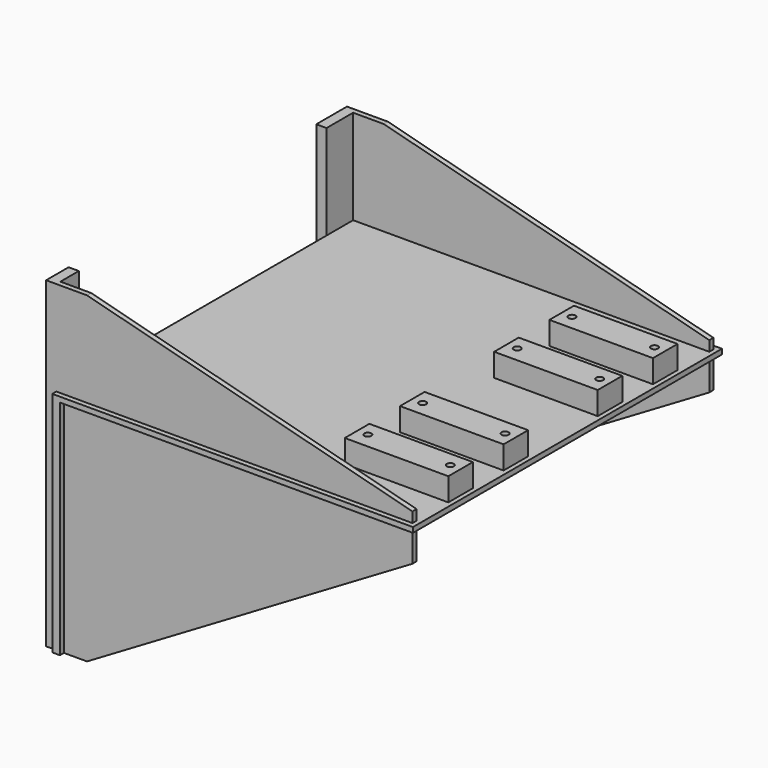
from build123d import *

# Parameters (mm, degrees)
F0_W      = 895.35
F0_H      = 958.85
F1_DEPTH  = 12.7
F2_W      = 257.048
F2_H      = 76.2
F2_R      = 8.73125
F3_DEPTH  = 57.15
F6_DEPTH  = 12.7
F8_DEPTH  = 12.7
F9_W      = 19.05
F9_H      = 552.45
F10_DEPTH = 946.278
F13_DEPTH = 19.05
F14_W     = 69.85
F14_H     = 800.1
F14_W_2   = 95.25
F15_DEPTH = 25.4


with BuildPart() as f1:
    # F0 (on Top) → F1 (new body)
    with BuildSketch(Plane.XY):
        Rectangle(F0_W, F0_H)
    extrude(amount=F1_DEPTH)

    # F2 (on face) → F3 (join)
    with BuildSketch(Plane.XY.offset(12.7)):
        with Locations((307.975, -146.05)):
            Rectangle(F2_W, F2_H)
        with Locations((205.613, -146.812)):
            Circle(F2_R, mode=Mode.SUBTRACT)
        with Locations((410.337, -146.812)):
            Circle(F2_R, mode=Mode.SUBTRACT)
        with Locations((307.975, -317.5)):
            Rectangle(F2_W, F2_H)
        with Locations((205.613, -316.738)):
            Circle(F2_R, mode=Mode.SUBTRACT)
        with Locations((410.337, -316.738)):
            Circle(F2_R, mode=Mode.SUBTRACT)
        with Locations((307.975, 146.05)):
            Rectangle(F2_W, F2_H)
        with Locations((205.613, 146.812)):
            Circle(F2_R, mode=Mode.SUBTRACT)
        with Locations((410.337, 146.812)):
            Circle(F2_R, mode=Mode.SUBTRACT)
        with Locations((307.975, 317.5)):
            Rectangle(F2_W, F2_H)
        with Locations((205.613, 316.738)):
            Circle(F2_R, mode=Mode.SUBTRACT)
        with Locations((410.337, 316.738)):
            Circle(F2_R, mode=Mode.SUBTRACT)
    extrude(amount=F3_DEPTH)

    # F5 (on offset) → F6 (join)
    with BuildSketch(Plane.XZ.offset(454.152)):
        Polygon((-447.675, 247.65), (-447.675, 12.7), (436.499, 12.7), (436.499, 38.1), (-371.475, 247.65), align=None)
    extrude(amount=F6_DEPTH)

    # F7 (on face) → F8 (join)
    with BuildSketch(Plane.XZ.offset(466.852)):
        Polygon((436.499, -76.2), (436.499, 0), (-447.675, 0), (-447.675, -552.45), (-371.475, -552.45), align=None)
    extrude(amount=-F8_DEPTH)

    # F9 (on face) → F10 (cut, through all)
    with BuildSketch(Plane.XZ.offset(466.852)):
        with Locations((-438.15, -276.225)):
            Rectangle(F9_W, F9_H)
    extrude(amount=-F10_DEPTH, mode=Mode.SUBTRACT)

    # F11: F1 across plane


with BuildPart() as f1_1:
    add(f1.part)
    add(f1.part.mirror(Plane.XZ))

    # F12 (on face) → F13 (join)
    with BuildSketch(Plane(origin=(-428.625, 0, 0), x_dir=(0, -1, 0), z_dir=(-1, 0, 0))):
        with BuildLine():
            Line((479.425, -552.45), (479.425, 0))
            Line((479.425, 0), (-479.425, 0))
            Line((-479.425, 0), (-479.425, -552.45))
            Line((-479.425, -552.45), (-365.125, -552.45))
            Line((-365.125, -552.45), (-365.125, -241.3))
            ThreePointArc((-365.125, -241.3), (-350.2460244843, -205.3789755157), (-314.325, -190.5))
            Line((-314.325, -190.5), (314.325, -190.5))
            ThreePointArc((314.325, -190.5), (350.2460244843, -205.3789755157), (365.125, -241.3))
            Line((365.125, -241.3), (365.125, -552.45))
            Line((365.125, -552.45), (479.425, -552.45))
        make_face()
    extrude(amount=F13_DEPTH)

    # F14 (on face) → F15 (join)
    with BuildSketch(Plane(origin=(-447.675, 0, 0), x_dir=(0, -1, 0), z_dir=(-1, 0, 0))):
        with Locations((431.927, -152.4)):
            Rectangle(F14_W, F14_H)
        with Locations((-419.227, -152.4)):
            Rectangle(F14_W_2, F14_H)
    extrude(amount=F15_DEPTH)


solid = f1_1.part
